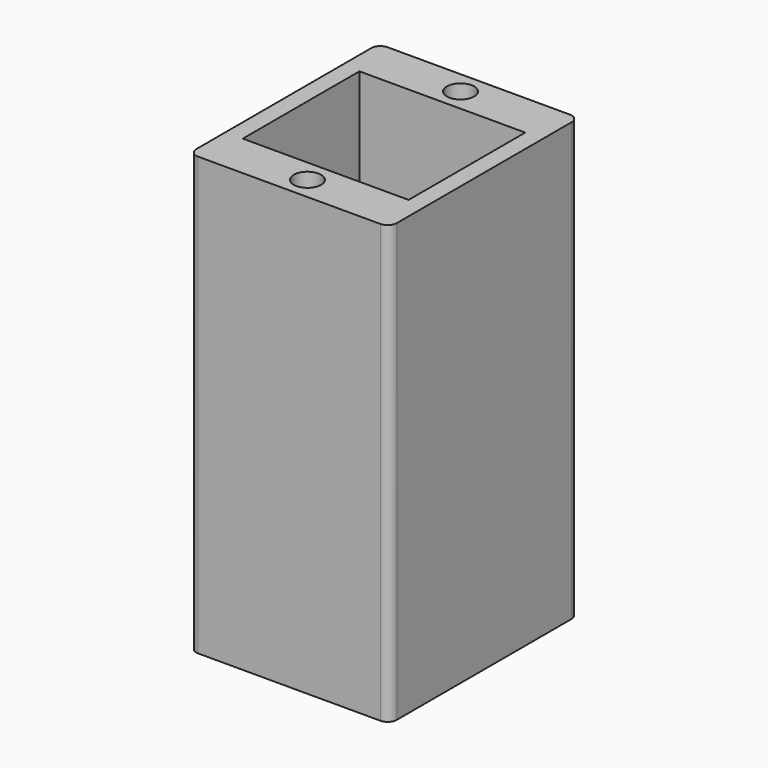
from build123d import *

# Parameters (mm, degrees)
SKETCH_W        = 22
SKETCH_H        = 26
PAD_DEPTH       = 2
SKETCH007_W     = 10
SKETCH007_H     = 5
POCKET_DEPTH    = 2.001
SKETCH008_W     = 22
SKETCH008_H     = 26
SKETCH008_W_2   = 14
SKETCH008_H_2   = 16
PAD005_DEPTH    = 46
SKETCH009_W     = 18.2
SKETCH009_H     = 16
POCKET002_DEPTH = 41.5
SKETCH010_W     = 18.2
SKETCH010_H     = 1.4
POCKET003_DEPTH = 4.5
SKETCH013_R     = 1.5
POCKET005_DEPTH = 5
FILLET001_R     = 1


with BuildPart() as part:
    # Sketch → Pad (new body)
    with BuildSketch(Plane.XY):
        Rectangle(SKETCH_W, SKETCH_H)
    extrude(amount=PAD_DEPTH)

    # Sketch007 (on Face6 of Pad) → Pocket (cut, through all)
    with BuildSketch(Plane.XY.offset(2)):
        with Locations((0, 2.5)):
            Rectangle(SKETCH007_W, SKETCH007_H)
    extrude(amount=-POCKET_DEPTH, mode=Mode.SUBTRACT)

    # Sketch008 (on Face5 of Pocket) → Pad005 (join)
    with BuildSketch(Plane.XY.offset(2)):
        Rectangle(SKETCH008_W, SKETCH008_H)
        Rectangle(SKETCH008_W_2, SKETCH008_H_2, mode=Mode.SUBTRACT)
    extrude(amount=PAD005_DEPTH)

    # Sketch009 (on Face13 of Pad005) → Pocket002 (cut)
    with BuildSketch(Plane.XY.offset(48)):
        Rectangle(SKETCH009_W, SKETCH009_H)
    extrude(amount=-POCKET002_DEPTH, mode=Mode.SUBTRACT)

    # Sketch010 (on Face29 of Pocket002) → Pocket003 (cut)
    with BuildSketch(Plane.XY.offset(6.5)):
        Rectangle(SKETCH010_W, SKETCH010_H)
    extrude(amount=-POCKET003_DEPTH, mode=Mode.SUBTRACT)

    # Sketch013 (on Face13 of Pocket003) → Pocket005 (cut)
    with BuildSketch(Plane.XY.offset(48)):
        with Locations((0, 10.5)):
            Circle(SKETCH013_R)
        with Locations((0, -10.5)):
            Circle(SKETCH013_R)
    extrude(amount=-POCKET005_DEPTH, mode=Mode.SUBTRACT)

    # Fillet001
    fillet001_edges = [part.edges().sort_by_distance(p)[0] for p in [
        (-11, 13, 25),
        (-11, -13, 25),
        (11, 13, 25),
        (11, -13, 25),
        (11, -13, 1),
        (11, 13, 1),
        (-11, 13, 1),
        (-11, -13, 1),
    ]]
    fillet(fillet001_edges, radius=FILLET001_R)


solid = part.part
